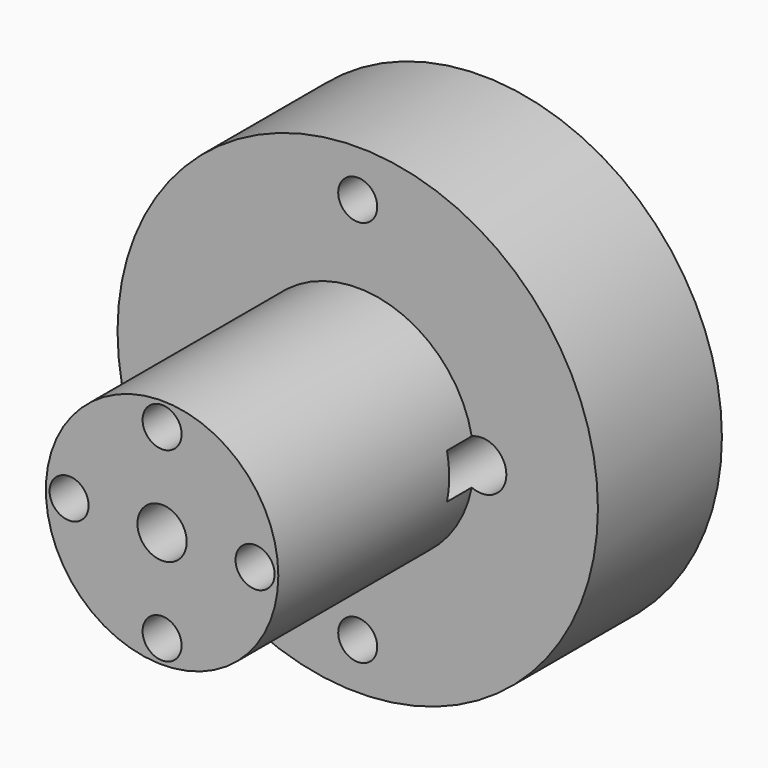
from build123d import *

# Parameters (mm, degrees)
F0_R     = 19.685
F1_DEPTH = 12.7
F2_R     = 9.525
F3_DEPTH = 20.0406
F4_R     = 1.6002
F4_R_2   = 2.0193
F5_DEPTH = 7.62
F6_R     = 3.9624
F7_DEPTH = 1.27
F8_R     = 1.6002
F8_R_2   = 2.0193
F9_DEPTH = 15.24


with BuildPart() as f1:
    # F0 (on Front) → F1 (new body)
    with BuildSketch(Plane.XZ):
        Circle(F0_R)
    extrude(amount=F1_DEPTH)

    # F2 (on face) → F3 (join)
    with BuildSketch(Plane.XZ.offset(12.7)):
        Circle(F2_R)
    extrude(amount=F3_DEPTH)

    # F4 (on face) → F5 (cut)
    with BuildSketch(Plane.XZ.offset(32.7406)):
        with Locations((7.62, 0)):
            Circle(F4_R)
        with Locations((0, 7.62)):
            Circle(F4_R)
        with Locations((-7.62, 0)):
            Circle(F4_R)
        with Locations((0, -7.62)):
            Circle(F4_R)
        Circle(F4_R_2)
    extrude(amount=-F5_DEPTH, mode=Mode.SUBTRACT)

    # F6 (on face) → F7 (cut)
    with BuildSketch(Plane(origin=(0, 0, 0), x_dir=(-1, 0, 0), z_dir=(0, 1, 0))):
        Circle(F6_R)
    extrude(amount=-F7_DEPTH, mode=Mode.SUBTRACT)

    # F8 (on face) → F9 (cut)
    with BuildSketch(Plane(origin=(0, 0, 0), x_dir=(-1, 0, 0), z_dir=(0, 1, 0))):
        with Locations((0, 15.875)):
            Circle(F8_R)
        with Locations((10.16, 0)):
            Circle(F8_R_2)
        with Locations((0, -15.875)):
            Circle(F8_R)
        with Locations((-10.16, 0)):
            Circle(F8_R_2)
    extrude(amount=-F9_DEPTH, mode=Mode.SUBTRACT)


solid = f1.part
